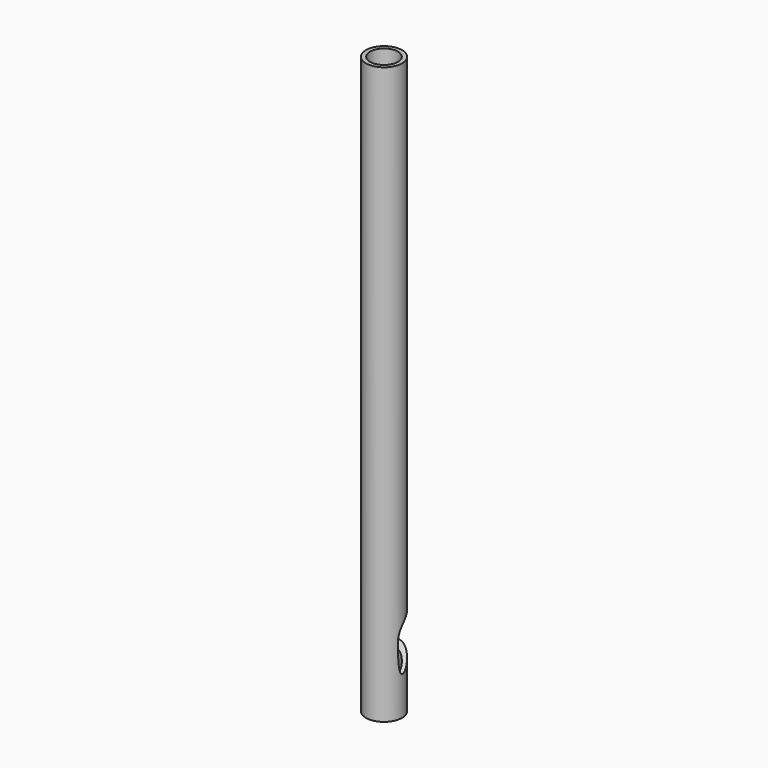
from build123d import *

# Parameters (mm, degrees)
F0_R     = 6.35
F0_R_2   = 4.9149
F1_DEPTH = 203.2
F4_DEPTH = 46.99


with BuildPart() as f1:
    # F0 (on Top) → F1 (new body)
    with BuildSketch(Plane.XY):
        Circle(F0_R)
        Circle(F0_R_2, mode=Mode.SUBTRACT)
    extrude(amount=F1_DEPTH)

    # F3 (on offset) → F4 (cut)
    with BuildSketch(Plane.YZ.offset(25.4)):
        with BuildLine():
            add(Edge.make_bspline(
                [(12.2358184308, 32.7148782089), (10.5038681528, 34.1051447708), (-1.6168660772, 30.4357971635), (-1.6728531057, 22.3115517096), (-1.0833059754, 9.2265793962), (7.9254095039, 21.9422816832), (13.9539572553, 31.3356983407), (12.2358184308, 32.7148782089)],
                knots=[0, 0, 0, 0, 0.2144202227, 0.3973786309, 0.5745007308, 0.7872896733, 1, 1, 1, 1], degree=3))
        make_face()
    extrude(amount=-F4_DEPTH, mode=Mode.SUBTRACT)


solid = f1.part
